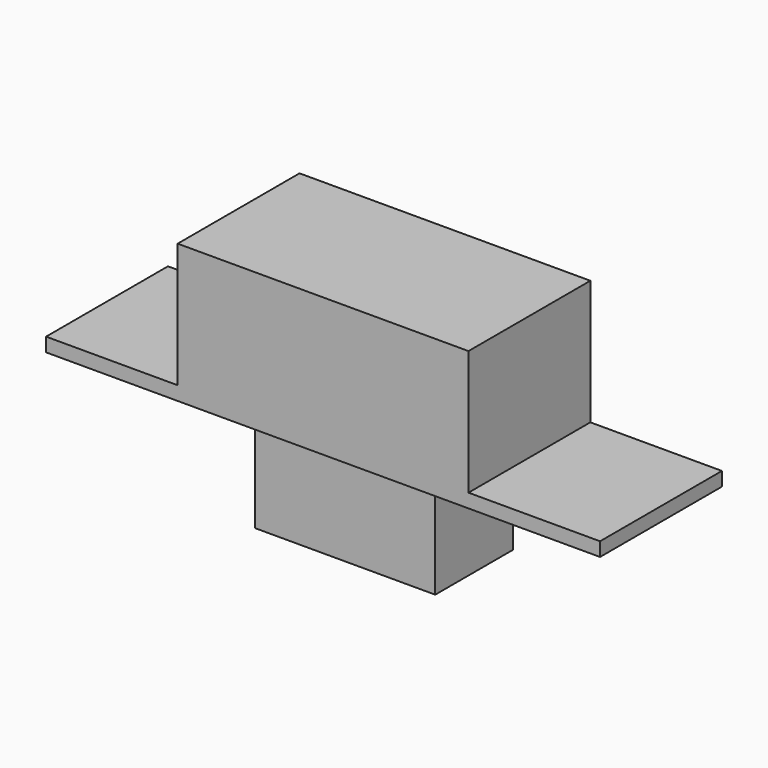
from build123d import *

# Parameters (mm, degrees)
F0_W     = 20
F0_H     = 5.5
F1_DEPTH = 0.5
F2_W     = 10.5
F2_H     = 5.5
F3_DEPTH = 4.5
F4_W     = 6.5
F4_H     = 3.5
F5_DEPTH = 3.8


with BuildPart() as f1:
    # F0 (on Top) → F1 (new body)
    with BuildSketch(Plane.XY):
        Rectangle(F0_W, F0_H)
    extrude(amount=F1_DEPTH)

    # F2 (on face) → F3 (join)
    with BuildSketch(Plane.XY.offset(0.5)):
        Rectangle(F2_W, F2_H)
    extrude(amount=F3_DEPTH)

    # F4 (on face) → F5 (join)
    with BuildSketch(Plane(origin=(0, 0, 0), x_dir=(1, 0, 0), z_dir=(0, 0, -1))):
        Rectangle(F4_W, F4_H)
    extrude(amount=F5_DEPTH)


solid = f1.part
